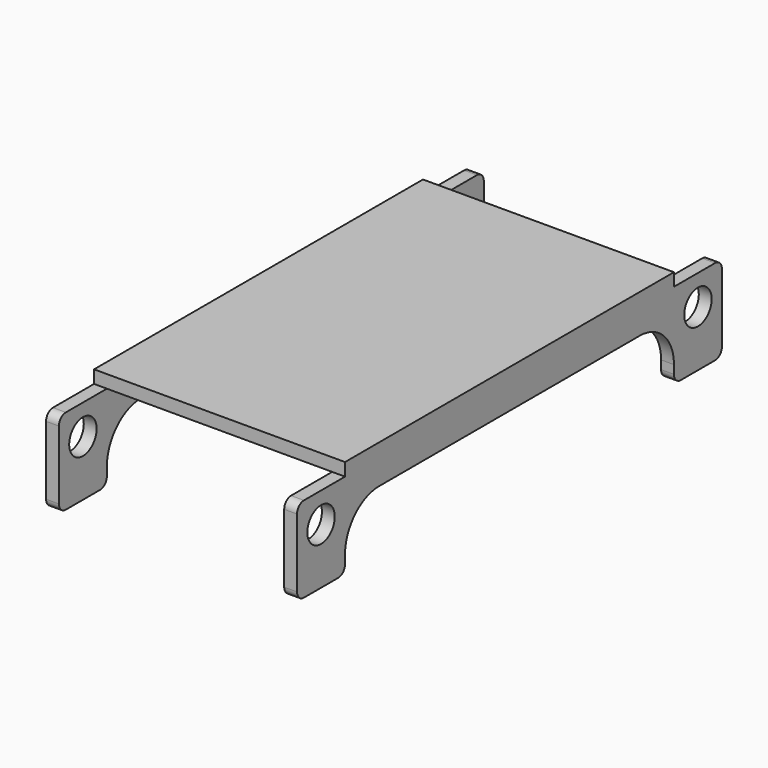
from build123d import *

# Parameters (mm, degrees)
F1_DEPTH = 62
F2_R     = 2
F3_DEPTH = 29.301
F4_W     = 48
F4_H     = 7
F5_DEPTH = 29.301
F6_R     = 1
F7_R     = 5
F8_W     = 29.3
F8_H     = 7
F9_DEPTH = 1.5
F10_R    = 1


with BuildPart() as f1:
    # F0 (on Front) → F1 (new body)
    with BuildSketch(Plane.XZ):
        Polygon((0, 11.5), (0, 0), (1.5, 0), (1.5, 10), (27.8, 10), (27.8, 0), (29.3, 0), (29.3, 11.5), align=None)
    extrude(amount=F1_DEPTH)

    # F2 (on face) → F3 (cut, through all)
    with BuildSketch(Plane.YZ.offset(29.3)):
        with Locations((-58.5, 6.5)):
            Circle(F2_R)
        with Locations((-3.5, 6.5)):
            Circle(F2_R)
    extrude(amount=-F3_DEPTH, mode=Mode.SUBTRACT)

    # F4 (on face) → F5 (cut, through all)
    with BuildSketch(Plane.YZ.offset(29.3)):
        with Locations((-31, 3.5)):
            Rectangle(F4_W, F4_H)
    extrude(amount=-F5_DEPTH, mode=Mode.SUBTRACT)

    # F6
    f6_edges = [f1.edges().sort_by_distance(p)[0] for p in [
        (28.55, -62, 0),
        (0.75, -55, 0),
        (28.55, -55, 0),
        (0.75, -62, 0),
        (28.55, 0, 0),
        (0.75, -7, 0),
        (28.55, -7, 0),
        (0.75, 0, 0),
    ]]
    fillet(f6_edges, radius=F6_R)

    # F7
    f7_edges = [f1.edges().sort_by_distance(p)[0] for p in [
        (0.75, -7, 7),
        (28.55, -7, 7),
        (0.75, -55, 7),
        (28.55, -55, 7),
    ]]
    fillet(f7_edges, radius=F7_R)

    # F8 (on face) → F9 (cut)
    with BuildSketch(Plane.XY.offset(11.5)):
        with Locations((14.65, -58.5)):
            Rectangle(F8_W, F8_H)
        with Locations((14.65, -3.5)):
            Rectangle(F8_W, F8_H)
    extrude(amount=-F9_DEPTH, mode=Mode.SUBTRACT)

    # F10
    f10_edges = [f1.edges().sort_by_distance(p)[0] for p in [
        (0.75, -62, 10),
        (28.55, -62, 10),
        (0.75, 0, 10),
        (28.55, 0, 10),
    ]]
    fillet(f10_edges, radius=F10_R)


solid = f1.part
